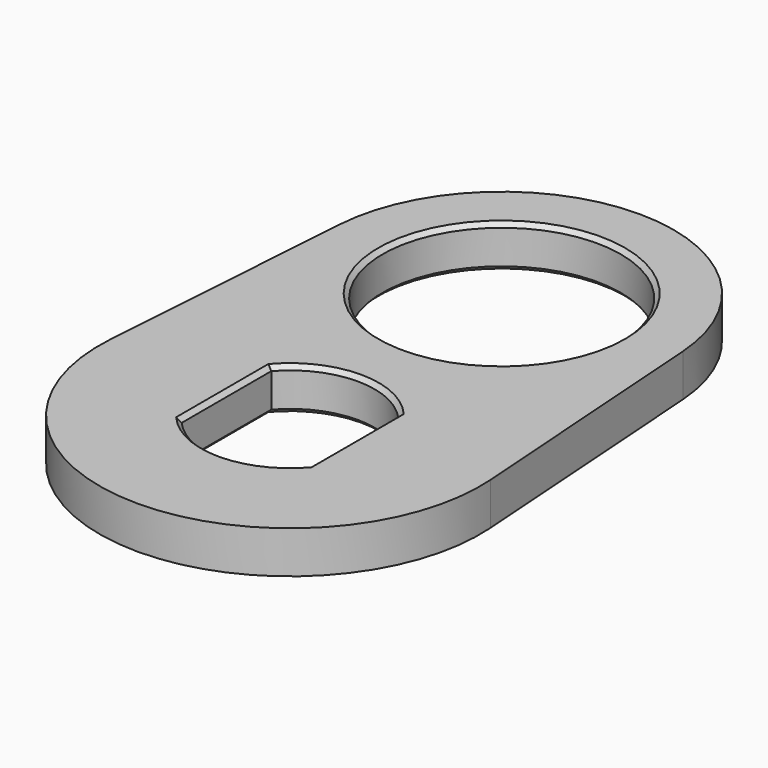
from build123d import *

# Parameters (mm, degrees)
F0_R     = 5.63
F1_DEPTH = 2
F2_SIZE2 = 0.2
F2_SIZE  = 0.2


with BuildPart() as f1:
    # F0 (on Top) → F1 (new body)
    with BuildSketch(Plane.XY):
        with BuildLine():
            Line((-8.110285, 13.065848), (-8.978175, 0.6264))
            ThreePointArc((-8.978175, 0.6264), (0, -9), (8.978175, 0.6264))
            Line((8.978175, 0.6264), (8.110285, 13.065848))
            ThreePointArc((8.110285, 13.065848), (0, 20.63), (-8.110285, 13.065848))
        make_face()
        with BuildLine():
            ThreePointArc((3, -2.645751), (0, -4), (-3, -2.645751))
            Line((-3, -2.645751), (-3, 2.645751))
            ThreePointArc((-3, 2.645751), (0, 4), (3, 2.645751))
            Line((3, 2.645751), (3, -2.645751))
        make_face(mode=Mode.SUBTRACT)
        with Locations((0, 12.5)):
            Circle(F0_R, mode=Mode.SUBTRACT)
    extrude(amount=F1_DEPTH)

    # F2
    f2_edges = [f1.edges().sort_by_distance(p)[0] for p in [
        (-3, 0, 2),
        (0, -4, 2),
        (3, 0, 2),
        (0, 4, 2),
        (3, 0, 0),
        (0, -4, 0),
        (0, 4, 0),
        (-3, 0, 0),
        (-5.63, 12.5, 2),
        (-5.63, 12.5, 0),
    ]]
    chamfer(f2_edges, length=F2_SIZE, length2=F2_SIZE2)


solid = f1.part
